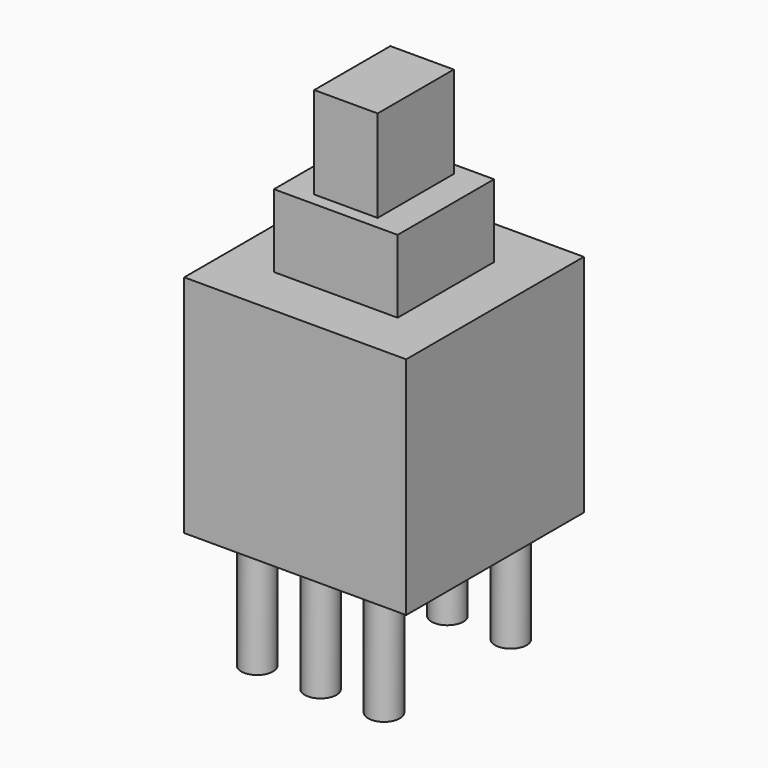
from build123d import *

# Parameters (mm, degrees)
SKETCH069_W  = 7
SKETCH069_H  = 7
PAD039_DEPTH = 7.1
SKETCH070_R  = 0.5
PAD040_DEPTH = 3.6
SKETCH071_W  = 3.9
SKETCH071_H  = 3.8
PAD041_DEPTH = 9.4
SKETCH072_W  = 2
SKETCH072_H  = 3
PAD042_DEPTH = 12.3


with BuildPart() as part:
    # Sketch069 → Pad039 (new body)
    with BuildSketch(Plane.XY):
        Rectangle(SKETCH069_W, SKETCH069_H)
    extrude(amount=PAD039_DEPTH)

    # Sketch070 → Pad040 (join)
    with BuildSketch(Plane.XY):
        with Locations((0, 2.5)):
            Circle(SKETCH070_R)
        with Locations((0, -2.5)):
            Circle(SKETCH070_R)
        with Locations((2, 2.5)):
            Circle(SKETCH070_R)
        with Locations((-2, 2.5)):
            Circle(SKETCH070_R)
        with Locations((-2, -2.5)):
            Circle(SKETCH070_R)
        with Locations((2, -2.5)):
            Circle(SKETCH070_R)
    extrude(amount=-PAD040_DEPTH)

    # Sketch071 → Pad041 (join)
    with BuildSketch(Plane.XY):
        Rectangle(SKETCH071_W, SKETCH071_H)
    extrude(amount=PAD041_DEPTH)

    # Sketch072 → Pad042 (join)
    with BuildSketch(Plane.XY):
        Rectangle(SKETCH072_W, SKETCH072_H)
    extrude(amount=PAD042_DEPTH)


with BuildPart() as part_1:
    # Body058 placement: moved
    add(part.part.moved(Location((0, -8.2, 0))))


solid = part_1.part
